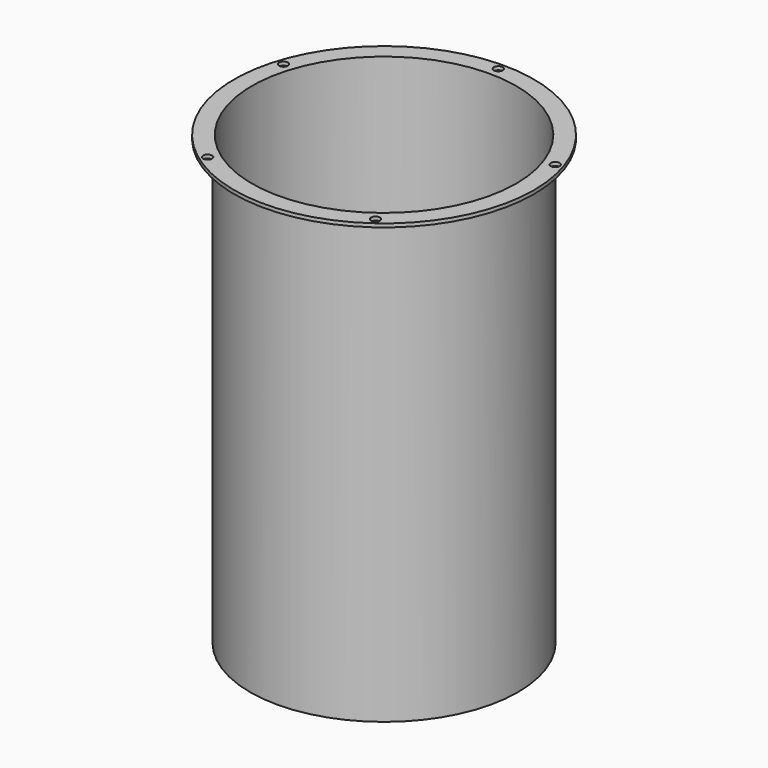
from build123d import *

# Parameters (mm, degrees)
F0_R     = 151
F1_DEPTH = 500
F2_R     = 149
F3_DEPTH = 490
F4_R     = 169
F4_R_2   = 149
F5_DEPTH = 4
F6_R     = 5
F7_DEPTH = 504.001


with BuildPart() as f1:
    # F0 (on Top) → F1 (new body)
    with BuildSketch(Plane.XY):
        Circle(F0_R)
    extrude(amount=F1_DEPTH)

    # F2 (on face) → F3 (cut)
    with BuildSketch(Plane.XY.offset(500)):
        Circle(F2_R)
    extrude(amount=-F3_DEPTH, mode=Mode.SUBTRACT)

    # F4 (on face) → F5 (join)
    with BuildSketch(Plane.XY.offset(500)):
        Circle(F4_R)
        Circle(F4_R_2, mode=Mode.SUBTRACT)
    extrude(amount=F5_DEPTH)

    # F6 (on face) → F7 (cut, through all)
    with BuildSketch(Plane.XY.offset(504)):
        with Locations((0, 161)):
            Circle(F6_R)
        with Locations((-153.120099, 49.751736)):
            Circle(F6_R)
        with Locations((-94.633426, -130.251736)):
            Circle(F6_R)
        with Locations((94.633426, -130.251736)):
            Circle(F6_R)
        with Locations((153.120099, 49.751736)):
            Circle(F6_R)
    extrude(amount=-F7_DEPTH, mode=Mode.SUBTRACT)


solid = f1.part
